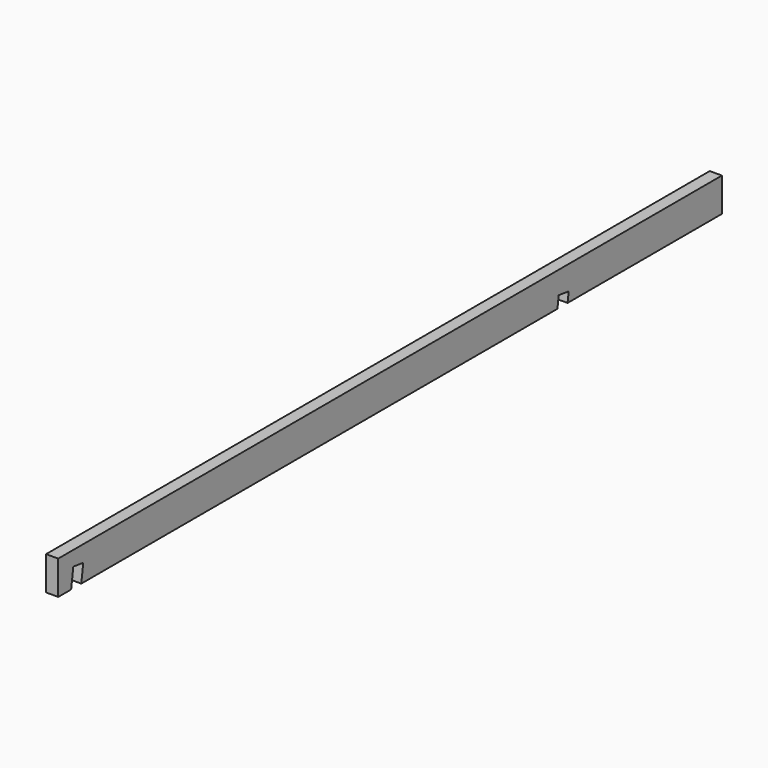
from build123d import *

# Parameters (mm, degrees)
F0_W     = 63
F0_H     = 175
F1_DEPTH = 2150
F3_DEPTH = 63


with BuildPart() as f1:
    # F0 (on Front) → F1 (new body, symmetric)
    with BuildSketch(Plane.XZ):
        Rectangle(F0_W, F0_H)
    extrude(amount=F1_DEPTH, both=True)

    # F2 (on face) → F3 (cut, through all)
    with BuildSketch(Plane.YZ.offset(31.5)):
        Polygon((1084.3612077863, -87.5), (1150, -87.5), (1157.0270417351, -37.5), (1092.6596172669, -28.4537484376), align=None)
        Polygon((-2066.3008184718, -87.5), (-2000.6620262581, -87.5), (-1988.0133511349, 2.5), (-2052.3807756031, 11.5462515624), align=None)
    extrude(amount=-F3_DEPTH, mode=Mode.SUBTRACT)


solid = f1.part
